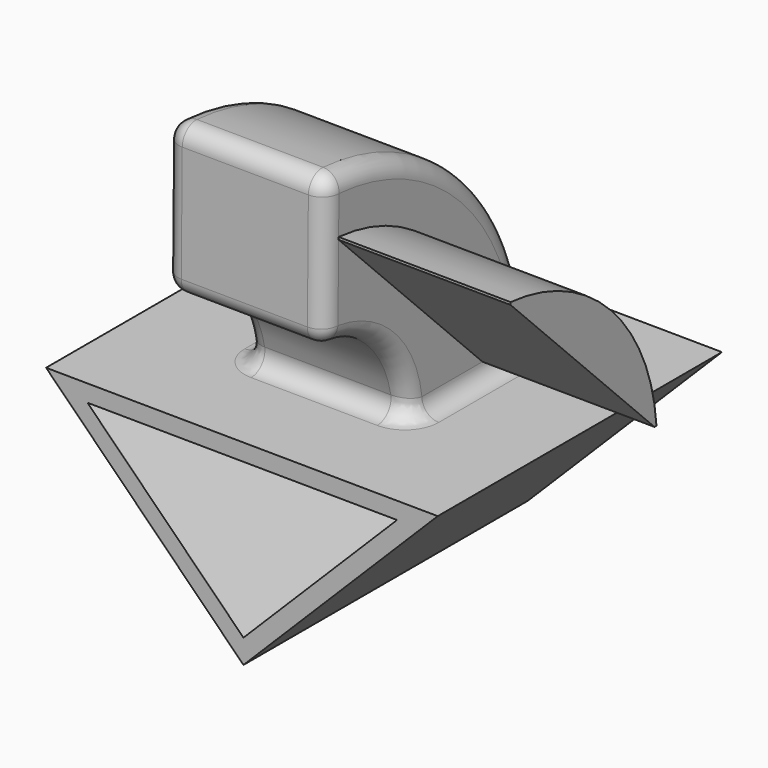
from build123d import *

# Parameters (mm, degrees)
F1_DEPTH = 53.12398
F2_W     = 23.9413073286
F2_H     = 22.4265204743
F3_ANGLE = 90
F4_R     = 2.54
F6_DEPTH = 53.1249801
F8_DEPTH = 25.71572


with BuildPart() as f1:
    # F0 (on Front) → F1 (new body)
    with BuildSketch(Plane.XZ):
        Polygon((29.051852704, 29.0388607975), (-29.5177362859, 29.53094244), (0, 0), align=None)
    extrude(amount=F1_DEPTH)

    # F2 (on face) → F3 (revolve)
    with BuildSketch(Plane(origin=(0.2460079132, 0, 29.2808776473), x_dir=(0.9999647079, 0, -0.0084013613), z_dir=(0.0084013613, 0, 0.9999647079))):
        with Locations((-0.2708197571, -25.872068014)):
            Rectangle(F2_W, F2_H)
    revolve(axis=Axis((-0.2329417909, -53.12398, 29.2849016188), (0.9999647079, 0, -0.0084013613)), revolution_arc=F3_ANGLE)

    # F4
    f4_edges = [f1.edges().sort_by_distance(p)[0] for p in [
        (12.040709, -41.782941, 40.523222),
        (12.173937, -25.924996, 56.380607),
        (11.945429, -25.872068, 29.182583),
        (12.174382, -53.12398, 56.433533),
        (0.298358, -53.12398, 67.746968),
        (-11.76608, -53.12398, 56.634673),
        (0.109944, -53.12398, 45.321239),
        (-11.766525, -25.924996, 56.581747),
        (-0.024802, -14.658808, 29.283153),
        (-11.899753, -41.782941, 40.724362),
        (-0.024802, -37.085328, 29.283153),
        (-11.995033, -25.872068, 29.383723),
    ]]
    fillet(f4_edges, radius=F4_R)

    # F5 (on face) → F6 (cut, through all)
    with BuildSketch(Plane.XZ.offset(53.12398)):
        Polygon((0.0008033687, 3.5921023586), (22.9688507095, 26.5498784535), (-23.3355659609, 26.9389123157), align=None)
    extrude(amount=-F6_DEPTH, mode=Mode.SUBTRACT)

    # F7 (on face) → F8 (join)
    with BuildSketch(Plane(origin=(11.699420996, 0, -0.0982945313), x_dir=(0, 1, 0), z_dir=(0.9999647079, 0, -0.0084013613))):
        with BuildLine():
            Line((-23.396522254, 31.8219110662), (-23.0236383706, 31.8219110662))
            ThreePointArc((-23.0236383706, 31.8219110662), (-31.7641793665, 50.6417116997), (-50.58398, 59.3822526955))
            Line((-50.58398, 59.3822526955), (-50.58398, 59.0093688122))
            Line((-50.58398, 59.0093688122), (-23.396522254, 31.8219110662))
        make_face()
    extrude(amount=F8_DEPTH)


solid = f1.part
